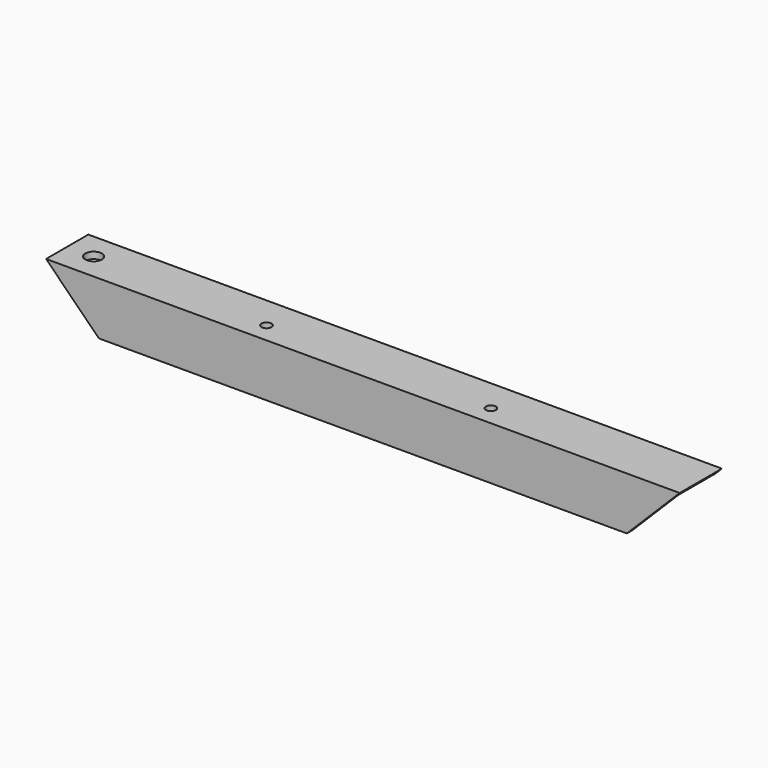
from build123d import *

# Parameters (mm, degrees)
PAD6966_DEPTH   = 152.4
POCKET672_DEPTH = 25.401
SKETCH7924_R    = 2.38125
SKETCH7924_R_2  = 3.96875
POCKET673_DEPTH = 25.401


with BuildPart() as part:
    # Sketch7922 → Pad6966 (new body, symmetric)
    with BuildSketch(Plane.YZ):
        Polygon((0, 0), (0, -25.4), (3.175, -25.4), (3.175, -3.175), (25.4, -3.175), (25.4, 0), align=None)
    extrude(amount=PAD6966_DEPTH, both=True)

    # Sketch7923 → Pocket672 (cut, through all)
    with BuildSketch(Plane.XZ):
        Polygon((-114.3, -38.1), (-152.4, 0), (-152.4, -38.1), align=None)
        Polygon((114.3, -38.1), (152.4, 0), (152.4, -38.1), align=None)
    extrude(amount=-POCKET672_DEPTH, mode=Mode.SUBTRACT)

    # Sketch7924 → Pocket673 (cut, through all)
    with BuildSketch(Plane.XY):
        with Locations((-53.975, 9.525)):
            Circle(SKETCH7924_R)
        with Locations((53.975, 9.525)):
            Circle(SKETCH7924_R)
        with Locations((-139.7, 12.7)):
            Circle(SKETCH7924_R_2)
    extrude(amount=-POCKET673_DEPTH, mode=Mode.SUBTRACT)


with BuildPart() as part_1:
    # Body6272 placement: moved
    add(part.part.moved(Location((0, 0, 130.175))))


solid = part_1.part
